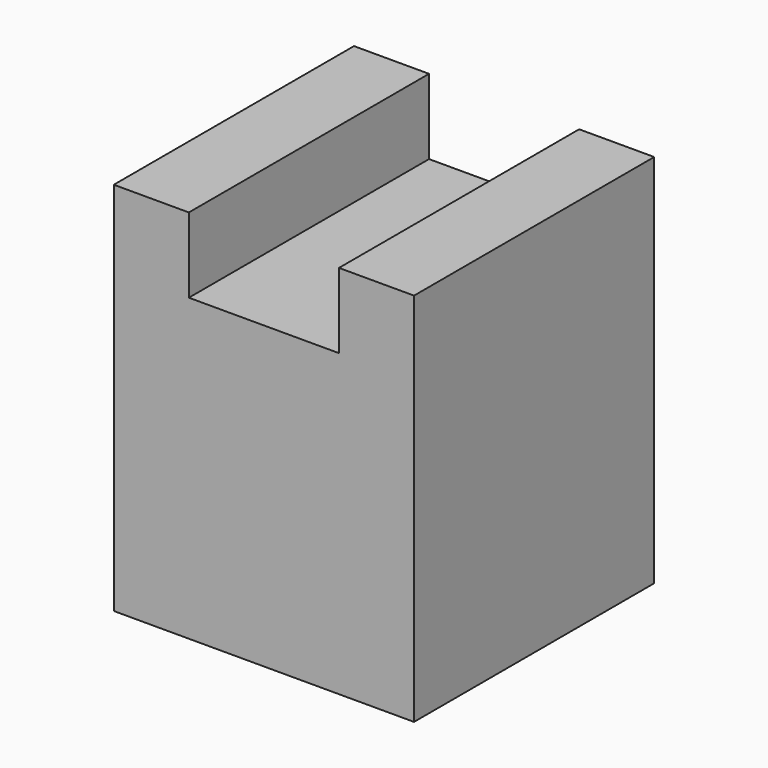
from build123d import *

# Parameters (mm, degrees)
F1_DEPTH = 25.4
F2_DEPTH = 25.4
F3_W     = 4.8232981935
F3_H     = 8.227978833
F4_DEPTH = 25.4


with BuildPart() as f1:
    # F0 (on Front) → F1 (new body)
    with BuildSketch(Plane.XZ):
        Polygon((0, 31.75), (0, 0), (25.4, 0), (25.4, 31.75), (19.05, 31.75), (19.05, 25.4), (6.35, 25.4), (6.35, 31.75), align=None)
    extrude(amount=F1_DEPTH)

    # F3 (on Front) → F4 (cut)
    with BuildSketch(Plane.XZ):
        with Locations((13.625479769, 4.1139894165)):
            Rectangle(F3_W, F3_H)
    extrude(amount=-F4_DEPTH, mode=Mode.SUBTRACT)


with BuildPart() as f2:
    # F0 (on Front) → F2 (new body)
    with BuildSketch(Plane.XZ):
        Polygon((0, 31.75), (0, 0), (25.4, 0), (25.4, 31.75), (19.05, 31.75), (19.05, 25.4), (6.35, 25.4), (6.35, 31.75), align=None)
    extrude(amount=F2_DEPTH)


solid = Compound([f1.part, f2.part])
